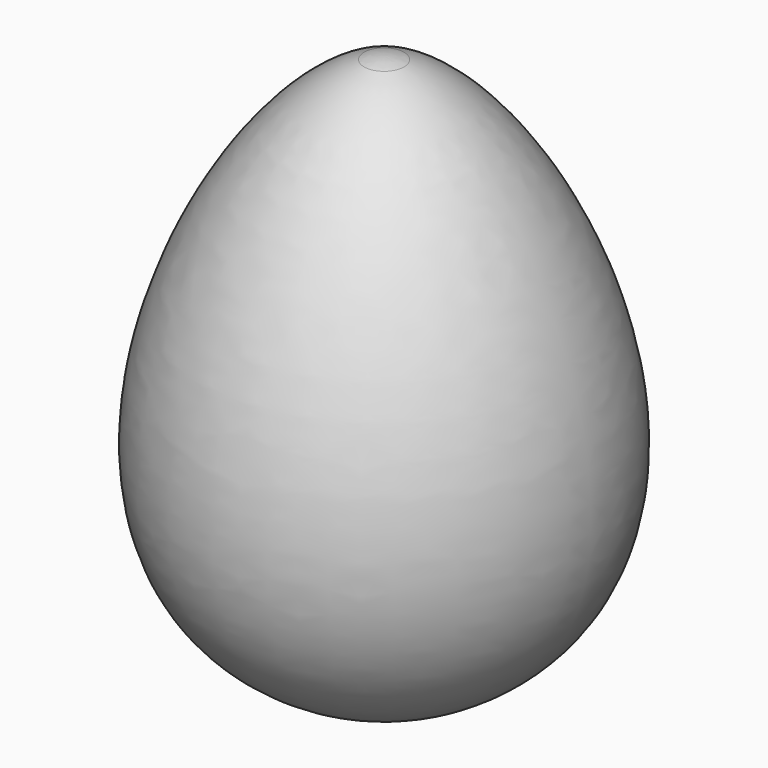
from build123d import *


with BuildPart() as f1:
    # F0 (on Front) → F1 (revolve)
    with BuildSketch(Plane.XZ):
        with BuildLine():
            ThreePointArc((2.707337, 37.657315), (1.371645, 37.988599), (0, 38.1))
            Line((0, 38.1), (0, 21.1))
            ThreePointArc((0, 21.1), (8.388599, 28.228355), (2.707337, 37.657315))
        make_face()
        with BuildLine():
            ThreePointArc((2.707337, 37.657315), (8.388599, 28.228355), (0, 21.1))
            Line((0, 21.1), (0, 11.9))
            ThreePointArc((0, 11.9), (24.632785, -8.83082), (8.412943, -36.641928))
            add(Edge.make_bspline(
                [(8.412943, -36.641928), (45.85221, -23.262633), (21.669008, 31.286009), (2.707337, 37.657315)],
                knots=[0, 0, 0, 0, 74.517995, 74.517995, 74.517995, 74.517995], degree=3))
        make_face()
        with BuildLine():
            ThreePointArc((8.412943, -36.641928), (24.632785, -8.83082), (0, 11.9))
            Line((0, 11.9), (0, -38.1))
            ThreePointArc((0, -38.1), (4.26918, -37.732785), (8.412943, -36.641928))
        make_face()
    revolve(axis=Axis((0, 0, 0), (0, 0, -1)))


solid = f1.part
